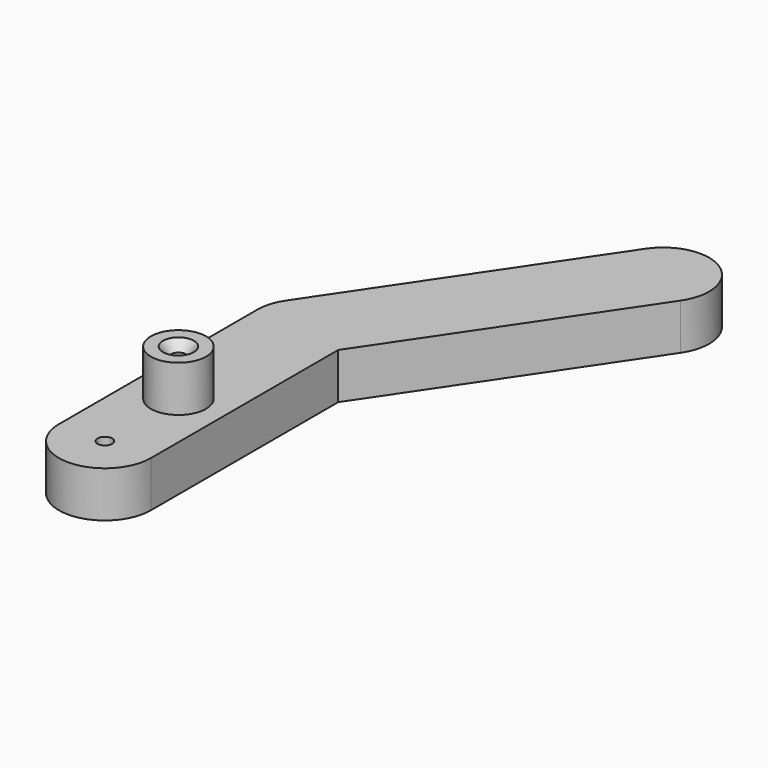
from build123d import *

# Parameters (mm, degrees)
F1_DEPTH       = 6.35
F2_R           = 3.81
F3_DEPTH       = 6.35
F5_D           = 2.0574
F5_CSINK_D     = 4.2672
F5_CSINK_ANGLE = 82
F6_D           = 2.032
F6_CSINK_D     = 3.175
F6_CSINK_ANGLE = 82


with BuildPart() as f1:
    # F0 (on Top) → F1 (new body)
    with BuildSketch(Plane.XY):
        with BuildLine():
            ThreePointArc((-6.35, 12.7), (-4.4901280605, 8.2098719395), (0, 6.35))
            Line((0, 6.35), (0, 12.7))
            Line((0, 12.7), (0, 19.05))
            ThreePointArc((0, 19.05), (-4.4901280605, 17.1901280605), (-6.35, 12.7))
        make_face()
        with BuildLine():
            Line((0, 12.7), (0, 6.35))
            ThreePointArc((0, 6.35), (4.4901280605, 8.2098719395), (6.35, 12.7))
            ThreePointArc((6.35, 12.7), (4.4901280605, 17.1901280605), (0, 19.05))
            Line((0, 19.05), (0, 12.7))
        make_face()
        with BuildLine():
            ThreePointArc((6.35, 12.7), (4.4901280605, 8.2098719395), (0, 6.35))
            ThreePointArc((0, 6.35), (-4.4901280605, 8.2098719395), (-6.35, 12.7))
            Line((-6.35, 12.7), (-6.35, 0))
            ThreePointArc((-6.35, 0), (0, -6.35), (6.35, 0))
            Line((6.35, 0), (6.35, 12.7))
        make_face()
        with BuildLine():
            ThreePointArc((0, 19.05), (4.4901280605, 17.1901280605), (6.35, 12.7))
            Line((6.35, 12.7), (6.35, 32.3486101727))
            Line((6.35, 32.3486101727), (5.2643885857, 30.739125063))
            ThreePointArc((5.2643885857, 30.739125063), (2.9811444237, 28.6832827853), (0, 27.94))
            Line((0, 27.94), (0, 19.05))
        make_face()
        with BuildLine():
            Line((-6.35, 34.29), (-6.35, 12.7))
            ThreePointArc((-6.35, 12.7), (-4.4901280605, 17.1901280605), (0, 19.05))
            Line((0, 19.05), (0, 27.94))
            ThreePointArc((0, 27.94), (-4.4901280605, 29.7998719395), (-6.35, 34.29))
        make_face()
        with BuildLine():
            Line((6.35, 34.29), (6.35, 32.3486101727))
            Line((6.35, 32.3486101727), (27.9899881828, 64.4312120116))
            ThreePointArc((27.9899881828, 64.4312120116), (26.2764745341, 73.2464755344), (17.4612110113, 71.5329618857))
            Line((17.4612110113, 71.5329618857), (-5.2643885857, 37.840874937))
            ThreePointArc((-5.2643885857, 37.840874937), (-1.2116371206, 40.5233326149), (3.550874937, 39.5543885857))
            ThreePointArc((3.550874937, 39.5543885857), (5.6067172147, 37.2711444237), (6.35, 34.29))
        make_face()
        with BuildLine():
            Line((5.2643885857, 30.739125063), (6.35, 32.3486101727))
            Line((6.35, 32.3486101727), (6.35, 34.29))
            ThreePointArc((6.35, 34.29), (5.6067172147, 37.2711444237), (3.550874937, 39.5543885857))
            Line((3.550874937, 39.5543885857), (0, 34.29))
            Line((0, 34.29), (0, 27.94))
            ThreePointArc((0, 27.94), (2.9811444237, 28.6832827853), (5.2643885857, 30.739125063))
        make_face()
        with BuildLine():
            ThreePointArc((-5.2643885857, 37.840874937), (-6.0725352004, 36.146560325), (-6.35, 34.29))
            ThreePointArc((-6.35, 34.29), (-4.4901280605, 29.7998719395), (0, 27.94))
            Line((0, 27.94), (0, 34.29))
            Line((0, 34.29), (3.550874937, 39.5543885857))
            ThreePointArc((3.550874937, 39.5543885857), (-1.2116371206, 40.5233326149), (-5.2643885857, 37.840874937))
        make_face()
    extrude(amount=F1_DEPTH)

    # F2 (on face) → F3 (join)
    with BuildSketch(Plane.XY.offset(6.35)):
        with Locations((0, 12.7)):
            Circle(F2_R)
    extrude(amount=F3_DEPTH)

    # F5 (through all)
    with Locations(Plane.XY.offset(12.7)):
        with Locations((0, 12.7)):
            CounterSinkHole(F5_D / 2, F5_CSINK_D / 2, counter_sink_angle=F5_CSINK_ANGLE)

    # F6 (through all)
    with Locations(Plane(origin=(0, 0, 0), x_dir=(1, 0, 0), z_dir=(0, 0, -1))):
        with Locations((0, 0)):
            CounterSinkHole(F6_D / 2, F6_CSINK_D / 2, counter_sink_angle=F6_CSINK_ANGLE)


solid = f1.part
